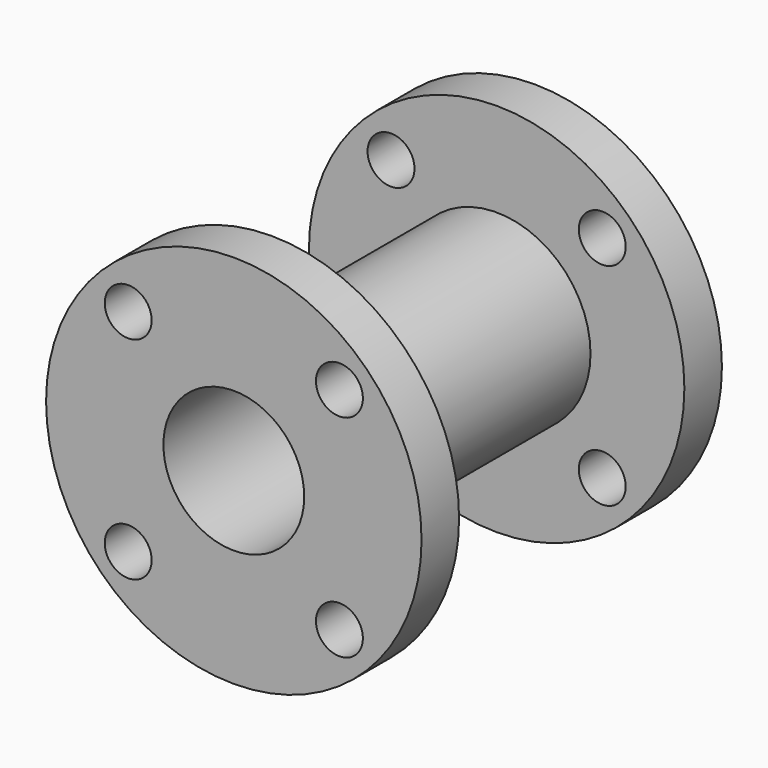
from build123d import *

# Parameters (mm, degrees)
F0_R     = 25.4
F1_DEPTH = 76.2
F2_R     = 50.8
F2_R_2   = 6.35
F3_DEPTH = 12.7
F5_R     = 50.8
F5_R_2   = 6.35
F6_DEPTH = 12.7
F4_R     = 19.05
F7_DEPTH = 137.922


with BuildPart() as f1:
    # F0 (on Front) → F1 (new body)
    with BuildSketch(Plane.XZ):
        Circle(F0_R)
    extrude(amount=F1_DEPTH)

    # F2 (on face) → F3 (join)
    with BuildSketch(Plane.XZ.offset(76.2)):
        Circle(F2_R)
        with Locations((-28.575, -28.575)):
            Circle(F2_R_2, mode=Mode.SUBTRACT)
        with Locations((28.575, -28.575)):
            Circle(F2_R_2, mode=Mode.SUBTRACT)
        with Locations((-28.575, 28.575)):
            Circle(F2_R_2, mode=Mode.SUBTRACT)
        with Locations((28.575, 28.575)):
            Circle(F2_R_2, mode=Mode.SUBTRACT)
    extrude(amount=F3_DEPTH)

    # F5 (on face) → F6 (join)
    with BuildSketch(Plane(origin=(0, 0, 0), x_dir=(-1, 0, 0), z_dir=(0, 1, 0))):
        Circle(F5_R)
        with Locations((-28.575, -28.575)):
            Circle(F5_R_2, mode=Mode.SUBTRACT)
        with Locations((28.575, -28.575)):
            Circle(F5_R_2, mode=Mode.SUBTRACT)
        with Locations((-28.575, 28.575)):
            Circle(F5_R_2, mode=Mode.SUBTRACT)
        with Locations((28.575, 28.575)):
            Circle(F5_R_2, mode=Mode.SUBTRACT)
    extrude(amount=F6_DEPTH)

    # F4 (on face) → F7 (cut)
    with BuildSketch(Plane.XZ.offset(88.9)):
        Circle(F4_R)
    extrude(amount=-F7_DEPTH, mode=Mode.SUBTRACT)


solid = f1.part
